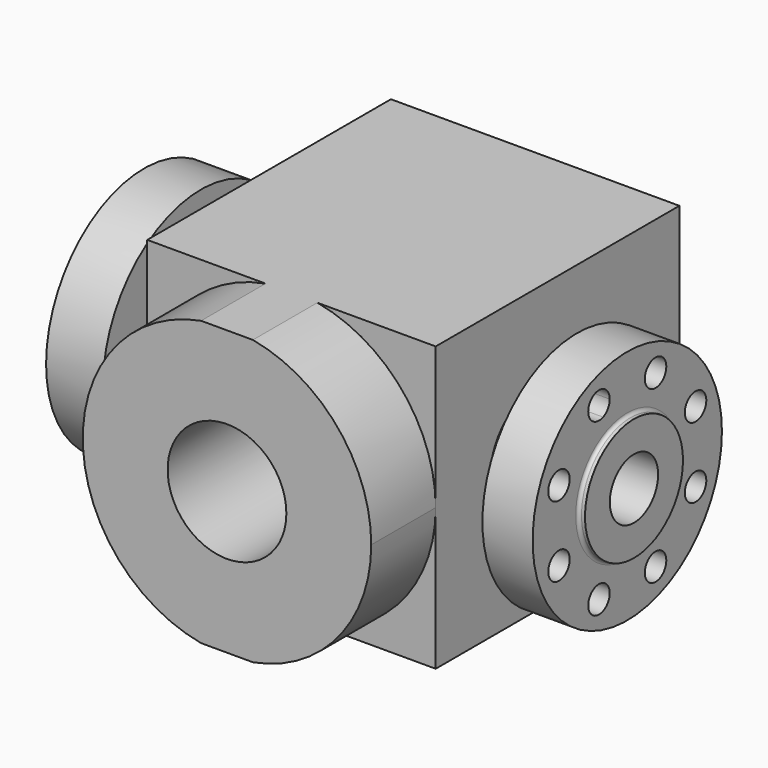
from build123d import *

# Parameters (mm, degrees)
F0_W      = 272.796
F0_H      = 268.3603210601
F1_DEPTH  = 191.516
F2_DEPTH  = 172.72
F4_R      = 115.824
F5_DEPTH  = 61.214
F6_R      = 50.8
F7_DEPTH  = 55.88
F9_COUNT  = 2
F10_R     = 28.575
F11_DEPTH = 701.04
F12_R     = 56.134
F13_DEPTH = 319.532
F15_DEPTH = 76.2
F16_R     = 115.824
F16_R_2   = 111.887
F17_DEPTH = 63.5
F18_R     = 12.7
F19_DEPTH = 90.678
F20_R     = 111.887
F20_R_2   = 12.7
F20_R_3   = 57.912
F20_R_4   = 28.575
F21_DEPTH = 6.35
F22_R     = 3.048


with BuildPart() as f1:
    # F0 (on Front) → F1 (new body)
    with BuildSketch(Plane.XZ):
        Rectangle(F0_W, F0_H)
    extrude(amount=F1_DEPTH)

    # F2 (add): a face of the model
    f2_faces = [f1.faces().sort_by_distance(p)[0] for p in [
        (0, 0, 0),
    ]]
    extrude(f2_faces, amount=F2_DEPTH)


with BuildPart() as f5:
    # F4 (on offset) → F5 (new body)
    with BuildSketch(Plane.YZ.offset(231.648)):
        Circle(F4_R)
    extrude(amount=-F5_DEPTH)


with BuildPart() as f7:
    # F6 (on face) → F7 (new body)
    with BuildSketch(Plane(origin=(170.434, 0, 0), x_dir=(0, -1, 0), z_dir=(-1, 0, 0))):
        Circle(F6_R)
    extrude(amount=F7_DEPTH)


with BuildPart() as f9_1:
    # F9: instance of F7
    add(f7.part.rotate(Axis((0, 0, 105.2917167544), (0, 0, 1)), 1 * 360 / F9_COUNT))


with BuildPart() as f9_2:
    # F9: instance of F5
    add(f5.part.rotate(Axis((0, 0, 105.2917167544), (0, 0, 1)), 1 * 360 / F9_COUNT))


with BuildPart() as f11_tool:
    # F10 (on face) → F11 (new body)
    with BuildSketch(Plane.YZ.offset(231.648)):
        Circle(F10_R)
    extrude(amount=-F11_DEPTH)


with BuildPart() as f1_1:
    add(f1.part)

    # F11: cut by f11_tool
    add(f11_tool.part, mode=Mode.SUBTRACT)

    # F12 (on face) → F13 (cut)
    with BuildSketch(Plane.XZ.offset(191.516)):
        Circle(F12_R)
    extrude(amount=-F13_DEPTH, mode=Mode.SUBTRACT)

    # F14 (on face) → F15 (cut)
    with BuildSketch(Plane.XZ.offset(191.516)):
        with BuildLine():
            ThreePointArc((-136.398, 1.595e-07), (-104.751479265, 87.3586973105), (-24.496916625, 134.18016053))
            Line((-24.496916625, 134.18016053), (-136.398, 134.18016053))
            Line((-136.398, 134.18016053), (-136.398, 1.595e-07))
        make_face()
        with BuildLine():
            ThreePointArc((24.496916625, 134.18016053), (104.7514793161, 87.3586972493), (136.398, 0))
            Line((136.398, 0), (136.398, 134.18016053))
            Line((136.398, 134.18016053), (24.496916625, 134.18016053))
        make_face()
        with BuildLine():
            Line((136.398, -134.18016053), (136.398, 0))
            ThreePointArc((136.398, 0), (104.7514793161, -87.3586972493), (24.496916625, -134.18016053))
            Line((24.496916625, -134.18016053), (136.398, -134.18016053))
        make_face()
        with BuildLine():
            Line((-136.398, -134.18016053), (-24.496916625, -134.18016053))
            ThreePointArc((-24.496916625, -134.18016053), (-104.7514793671, -87.3586971881), (-136.398, 1.595e-07))
            Line((-136.398, 1.595e-07), (-136.398, -134.18016053))
        make_face()
    extrude(amount=-F15_DEPTH, mode=Mode.SUBTRACT)


with BuildPart() as f5_1:
    add(f5.part)

    # F11: cut by f11_tool
    add(f11_tool.part, mode=Mode.SUBTRACT)

    # F16 (on face) → F17 (cut)
    with BuildSketch(Plane.YZ.offset(231.648)):
        Circle(F16_R)
        Circle(F16_R_2, mode=Mode.SUBTRACT)
    extrude(amount=-F17_DEPTH, mode=Mode.SUBTRACT)

    # F18 (on face) → F19 (cut)
    with BuildSketch(Plane.YZ.offset(231.648)):
        with BuildLine():
            ThreePointArc((-28.5772679953, 68.9916279698), (-22.8776835101, 73.6691560734), (-20.7373475863, 80.7248980327))
            ThreePointArc((-20.7373475863, 80.7248980327), (-43.9970116626, 87.7806399921), (-28.5772679953, 68.9916279698))
        make_face()
        with Locations((-80.7248980327, 33.4373475863)):
            Circle(F18_R)
        with Locations((-80.7248980327, -33.4373475863)):
            Circle(F18_R)
        with Locations((-33.4373475863, -80.7248980327)):
            Circle(F18_R)
        with Locations((33.4373475863, -80.7248980327)):
            Circle(F18_R)
        with Locations((80.7248980327, -33.4373475863)):
            Circle(F18_R)
        with Locations((80.7248980327, 33.4373475863)):
            Circle(F18_R)
        with Locations((33.4373475863, 80.7248980327)):
            Circle(F18_R)
    extrude(amount=-F19_DEPTH, mode=Mode.SUBTRACT)

    # F20 (on face) → F21 (cut)
    with BuildSketch(Plane.YZ.offset(231.648)):
        Circle(F20_R)
        with Locations((-33.4373475863, -80.7248980327)):
            Circle(F20_R_2, mode=Mode.SUBTRACT)
        with Locations((-80.7248980327, -33.4373475863)):
            Circle(F20_R_2, mode=Mode.SUBTRACT)
        with Locations((33.4373475863, -80.7248980327)):
            Circle(F20_R_2, mode=Mode.SUBTRACT)
        with Locations((80.7248980327, -33.4373475863)):
            Circle(F20_R_2, mode=Mode.SUBTRACT)
        with Locations((-80.7248980327, 33.4373475863)):
            Circle(F20_R_2, mode=Mode.SUBTRACT)
        with Locations((-33.4373475863, 80.7248980327)):
            Circle(F20_R_2, mode=Mode.SUBTRACT)
        Circle(F20_R_3, mode=Mode.SUBTRACT)
        with Locations((80.7248980327, 33.4373475863)):
            Circle(F20_R_2, mode=Mode.SUBTRACT)
        with Locations((33.4373475863, 80.7248980327)):
            Circle(F20_R_2, mode=Mode.SUBTRACT)
        Circle(F20_R_4)
    extrude(amount=-F21_DEPTH, mode=Mode.SUBTRACT)

    # F22
    f22_edges = [f5_1.edges().sort_by_distance(p)[0] for p in [
        (225.298, -57.912, 0),
    ]]
    fillet(f22_edges, radius=F22_R)


with BuildPart() as f7_1:
    add(f7.part)

    # F11: cut by f11_tool
    add(f11_tool.part, mode=Mode.SUBTRACT)


with BuildPart() as f9_1_1:
    add(f9_1.part)

    # F11: cut by f11_tool
    add(f11_tool.part, mode=Mode.SUBTRACT)


with BuildPart() as f9_2_1:
    add(f9_2.part)

    # F11: cut by f11_tool
    add(f11_tool.part, mode=Mode.SUBTRACT)


with BuildPart() as f24_tool:
    # F23 (on Top) → F24 (revolve)
    with BuildSketch(Plane.XY):
        Polygon((326.083863376, 0), (0, 0), (-326.083863376, 0), (-329.5660510919, -26.162), (-80.518, -26.162), (-80.518, -41.2623), (-56.9722, -41.2623), (-56.9722, -49.3141), (-34.2025496066, -49.3141), (34.2025496066, -49.3141), (56.9722, -49.3141), (56.9722, -41.2623), (80.518, -41.2623), (80.518, -26.162), (329.5660510919, -26.162), align=None)
        Polygon((155.9020730734, -118.535913527), (177.8, -118.9570277929), (177.8, -55.626), (155.9020730734, -55.626), align=None)
        Polygon((-177.8, -118.9570277929), (-155.9020730734, -118.535913527), (-155.9020730734, -55.626), (-177.8, -55.626), align=None)
    revolve(axis=Axis((163.041931688, 0, 0), (1, 0, 0)))


with BuildPart() as f1_2:
    add(f1_1.part)

    # F24: cut by f24_tool
    add(f24_tool.part, mode=Mode.SUBTRACT)


with BuildPart() as f5_2:
    add(f5_1.part)

    # F24: cut by f24_tool
    add(f24_tool.part, mode=Mode.SUBTRACT)


with BuildPart() as f9_2_2:
    add(f9_2_1.part)

    # F24: cut by f24_tool
    add(f24_tool.part, mode=Mode.SUBTRACT)


solid = Compound([f7_1.part, f9_1_1.part, f1_2.part, f5_2.part, f9_2_2.part])
